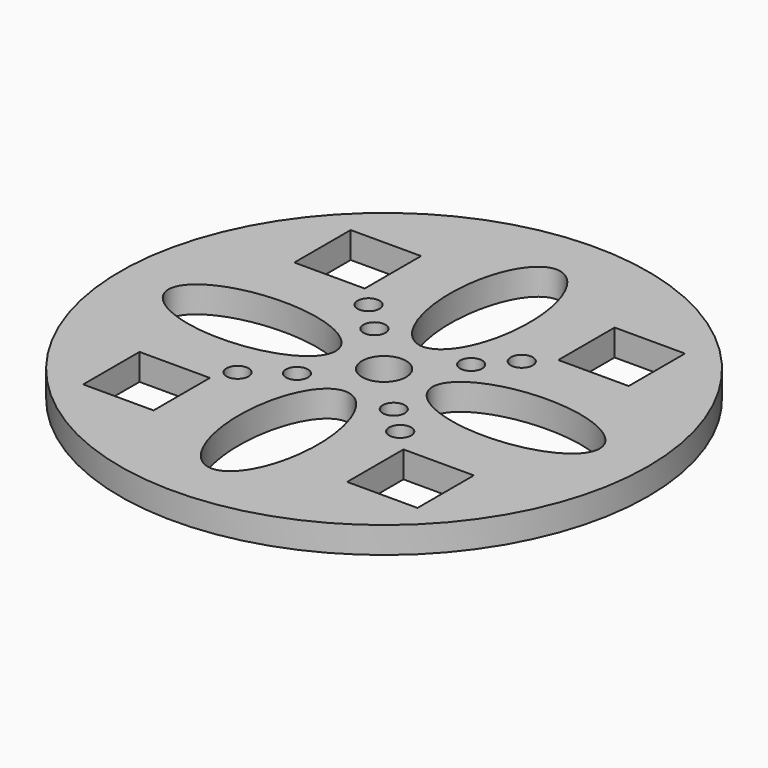
from build123d import *

# Parameters (mm, degrees)
F0_R     = 30
F0_W     = 8
F0_H     = 8
F0_R_2   = 1.25
F0_R_3   = 2.5
F1_DEPTH = 3


with BuildPart() as f1:
    # F0 (on Top) → F1 (new body)
    with BuildSketch(Plane.XY):
        Circle(F0_R)
        with Locations((-15, -15)):
            Rectangle(F0_W, F0_H, mode=Mode.SUBTRACT)
        with Locations((-9.75, -8.629401)):
            Circle(F0_R_2, mode=Mode.SUBTRACT)
        with Locations((-5.5, -5.5)):
            Circle(F0_R_2, mode=Mode.SUBTRACT)
        with BuildLine():
            add(Edge.make_bspline(
                [(0, -5.5), (-7.794229, -5.5), (-3.897114, -19.75), (0, -34), (3.897114, -19.75), (7.794229, -5.5), (0, -5.5)],
                knots=[0, 0, 0, 2.094395, 2.094395, 4.18879, 4.18879, 6.283185, 6.283185, 6.283185], degree=2, weights=[1, 0.5, 1, 0.5, 1, 0.5, 1]))
        make_face(mode=Mode.SUBTRACT)
        with Locations((8.621257, -8.4843)):
            Circle(F0_R_2, mode=Mode.SUBTRACT)
        with Locations((5.5, -5.5)):
            Circle(F0_R_2, mode=Mode.SUBTRACT)
        with Locations((15, -15)):
            Rectangle(F0_W, F0_H, mode=Mode.SUBTRACT)
        with BuildLine():
            add(Edge.make_bspline(
                [(-5.5, 0), (-5.5, 7.794229), (-19.75, 3.897114), (-34, 0), (-19.75, -3.897114), (-5.5, -7.794229), (-5.5, 0)],
                knots=[0, 0, 0, 2.094395, 2.094395, 4.18879, 4.18879, 6.283185, 6.283185, 6.283185], degree=2, weights=[1, 0.5, 1, 0.5, 1, 0.5, 1]))
        make_face(mode=Mode.SUBTRACT)
        with Locations((-5.5, 5.5)):
            Circle(F0_R_2, mode=Mode.SUBTRACT)
        with Locations((-8.790789, 8.782646)):
            Circle(F0_R_2, mode=Mode.SUBTRACT)
        with Locations((-15, 15)):
            Rectangle(F0_W, F0_H, mode=Mode.SUBTRACT)
        Circle(F0_R_3, mode=Mode.SUBTRACT)
        with Locations((5.5, 5.5)):
            Circle(F0_R_2, mode=Mode.SUBTRACT)
        with Locations((8.621257, 8.782646)):
            Circle(F0_R_2, mode=Mode.SUBTRACT)
        with BuildLine():
            add(Edge.make_bspline(
                [(24.5, 0), (24.5, 7.794229), (10.25, 3.897114), (-4, 0), (10.25, -3.897114), (24.5, -7.794229), (24.5, 0)],
                knots=[0, 0, 0, 2.094395, 2.094395, 4.18879, 4.18879, 6.283185, 6.283185, 6.283185], degree=2, weights=[1, 0.5, 1, 0.5, 1, 0.5, 1]))
        make_face(mode=Mode.SUBTRACT)
        with BuildLine():
            add(Edge.make_bspline(
                [(0, 5.5), (7.794229, 5.5), (3.897114, 19.75), (0, 34), (-3.897114, 19.75), (-7.794229, 5.5), (0, 5.5)],
                knots=[0, 0, 0, 2.094395, 2.094395, 4.18879, 4.18879, 6.283185, 6.283185, 6.283185], degree=2, weights=[1, 0.5, 1, 0.5, 1, 0.5, 1]))
        make_face(mode=Mode.SUBTRACT)
        with Locations((15, 15)):
            Rectangle(F0_W, F0_H, mode=Mode.SUBTRACT)
    extrude(amount=F1_DEPTH)


solid = f1.part
